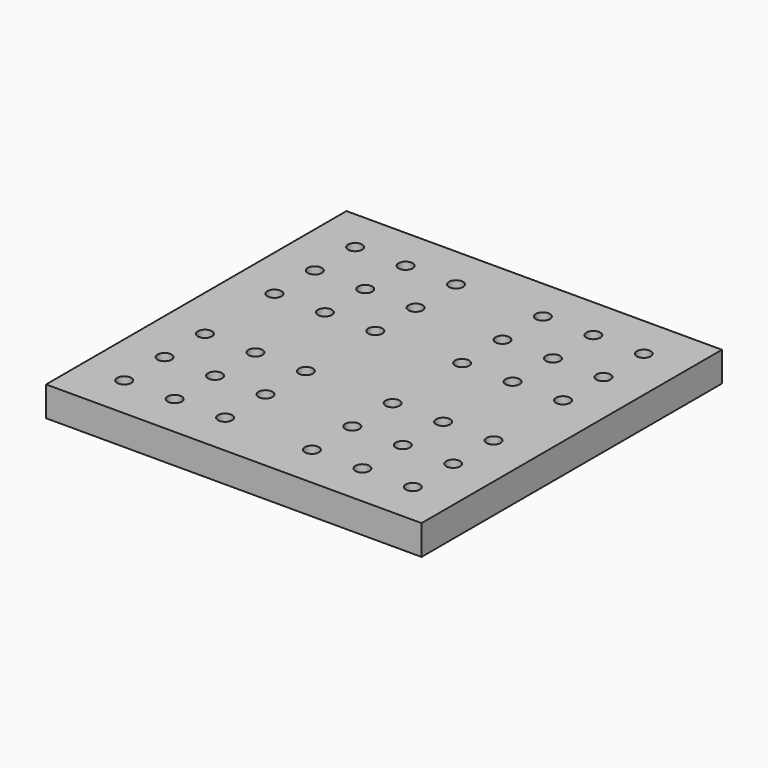
from build123d import *

# Parameters (mm, degrees)
F0_R     = 1.5
F1_DEPTH = 6.35


with BuildPart() as f1:
    # F0 (on Top) → F1 (new body)
    with BuildSketch(Plane.XY):
        Polygon((0, 0), (9.25, 0), (40, 0), (40, 39.999997), (0, 39.999997), align=None)
        with Locations((9.25, 9.249999)):
            Circle(F0_R, mode=Mode.SUBTRACT)
        with Locations((20, 9.249999)):
            Circle(F0_R, mode=Mode.SUBTRACT)
        with Locations((30.75, 9.249999)):
            Circle(F0_R, mode=Mode.SUBTRACT)
        with Locations((9.25, 19.999998)):
            Circle(F0_R, mode=Mode.SUBTRACT)
        with Locations((9.25, 30.749998)):
            Circle(F0_R, mode=Mode.SUBTRACT)
        with Locations((20, 19.999998)):
            Circle(F0_R, mode=Mode.SUBTRACT)
        with Locations((30.75, 19.999998)):
            Circle(F0_R, mode=Mode.SUBTRACT)
        with Locations((20, 30.749998)):
            Circle(F0_R, mode=Mode.SUBTRACT)
        with Locations((30.75, 30.749998)):
            Circle(F0_R, mode=Mode.SUBTRACT)
        Polygon((40, 0), (9.25, 0), (0, 0), (0, -39.999997), (40, -39.999997), align=None)
        with Locations((9.25, -30.749998)):
            Circle(F0_R, mode=Mode.SUBTRACT)
        with Locations((9.25, -19.999998)):
            Circle(F0_R, mode=Mode.SUBTRACT)
        with Locations((20, -30.749998)):
            Circle(F0_R, mode=Mode.SUBTRACT)
        with Locations((30.75, -30.749998)):
            Circle(F0_R, mode=Mode.SUBTRACT)
        with Locations((20, -19.999998)):
            Circle(F0_R, mode=Mode.SUBTRACT)
        with Locations((30.75, -19.999998)):
            Circle(F0_R, mode=Mode.SUBTRACT)
        with Locations((9.25, -9.249999)):
            Circle(F0_R, mode=Mode.SUBTRACT)
        with Locations((20, -9.249999)):
            Circle(F0_R, mode=Mode.SUBTRACT)
        with Locations((30.75, -9.249999)):
            Circle(F0_R, mode=Mode.SUBTRACT)
        Polygon((0, 0), (9.25, 0), (40, 0), (40, 39.999997), (0, 39.999997), align=None)
        with Locations((9.25, 9.249999)):
            Circle(F0_R, mode=Mode.SUBTRACT)
        with Locations((20, 9.249999)):
            Circle(F0_R, mode=Mode.SUBTRACT)
        with Locations((30.75, 9.249999)):
            Circle(F0_R, mode=Mode.SUBTRACT)
        with Locations((9.25, 19.999998)):
            Circle(F0_R, mode=Mode.SUBTRACT)
        with Locations((9.25, 30.749998)):
            Circle(F0_R, mode=Mode.SUBTRACT)
        with Locations((20, 19.999998)):
            Circle(F0_R, mode=Mode.SUBTRACT)
        with Locations((30.75, 19.999998)):
            Circle(F0_R, mode=Mode.SUBTRACT)
        with Locations((20, 30.749998)):
            Circle(F0_R, mode=Mode.SUBTRACT)
        with Locations((30.75, 30.749998)):
            Circle(F0_R, mode=Mode.SUBTRACT)
        Polygon((40, 0), (9.25, 0), (0, 0), (0, -39.999997), (40, -39.999997), align=None)
        with Locations((9.25, -30.749998)):
            Circle(F0_R, mode=Mode.SUBTRACT)
        with Locations((9.25, -19.999998)):
            Circle(F0_R, mode=Mode.SUBTRACT)
        with Locations((20, -30.749998)):
            Circle(F0_R, mode=Mode.SUBTRACT)
        with Locations((30.75, -30.749998)):
            Circle(F0_R, mode=Mode.SUBTRACT)
        with Locations((20, -19.999998)):
            Circle(F0_R, mode=Mode.SUBTRACT)
        with Locations((30.75, -19.999998)):
            Circle(F0_R, mode=Mode.SUBTRACT)
        with Locations((9.25, -9.249999)):
            Circle(F0_R, mode=Mode.SUBTRACT)
        with Locations((20, -9.249999)):
            Circle(F0_R, mode=Mode.SUBTRACT)
        with Locations((30.75, -9.249999)):
            Circle(F0_R, mode=Mode.SUBTRACT)
        Polygon((0, -39.999997), (0, 0), (0, 39.999997), (-40, 39.999997), (-40, 0), (-40, -39.999997), align=None)
        with Locations((-30.75, -30.749998)):
            Circle(F0_R, mode=Mode.SUBTRACT)
        with Locations((-30.75, -19.999998)):
            Circle(F0_R, mode=Mode.SUBTRACT)
        with Locations((-20, -30.749998)):
            Circle(F0_R, mode=Mode.SUBTRACT)
        with Locations((-9.25, -30.749998)):
            Circle(F0_R, mode=Mode.SUBTRACT)
        with Locations((-20, -19.999998)):
            Circle(F0_R, mode=Mode.SUBTRACT)
        with Locations((-9.25, -19.999998)):
            Circle(F0_R, mode=Mode.SUBTRACT)
        with Locations((-30.75, -9.249999)):
            Circle(F0_R, mode=Mode.SUBTRACT)
        with Locations((-20, -9.249999)):
            Circle(F0_R, mode=Mode.SUBTRACT)
        with Locations((-9.25, -9.249999)):
            Circle(F0_R, mode=Mode.SUBTRACT)
        with Locations((-30.75, 9.249999)):
            Circle(F0_R, mode=Mode.SUBTRACT)
        with Locations((-20, 9.249999)):
            Circle(F0_R, mode=Mode.SUBTRACT)
        with Locations((-9.25, 9.249999)):
            Circle(F0_R, mode=Mode.SUBTRACT)
        with Locations((-30.75, 19.999998)):
            Circle(F0_R, mode=Mode.SUBTRACT)
        with Locations((-30.75, 30.749998)):
            Circle(F0_R, mode=Mode.SUBTRACT)
        with Locations((-20, 19.999998)):
            Circle(F0_R, mode=Mode.SUBTRACT)
        with Locations((-9.25, 19.999998)):
            Circle(F0_R, mode=Mode.SUBTRACT)
        with Locations((-20, 30.749998)):
            Circle(F0_R, mode=Mode.SUBTRACT)
        with Locations((-9.25, 30.749998)):
            Circle(F0_R, mode=Mode.SUBTRACT)
    extrude(amount=F1_DEPTH)


solid = f1.part
